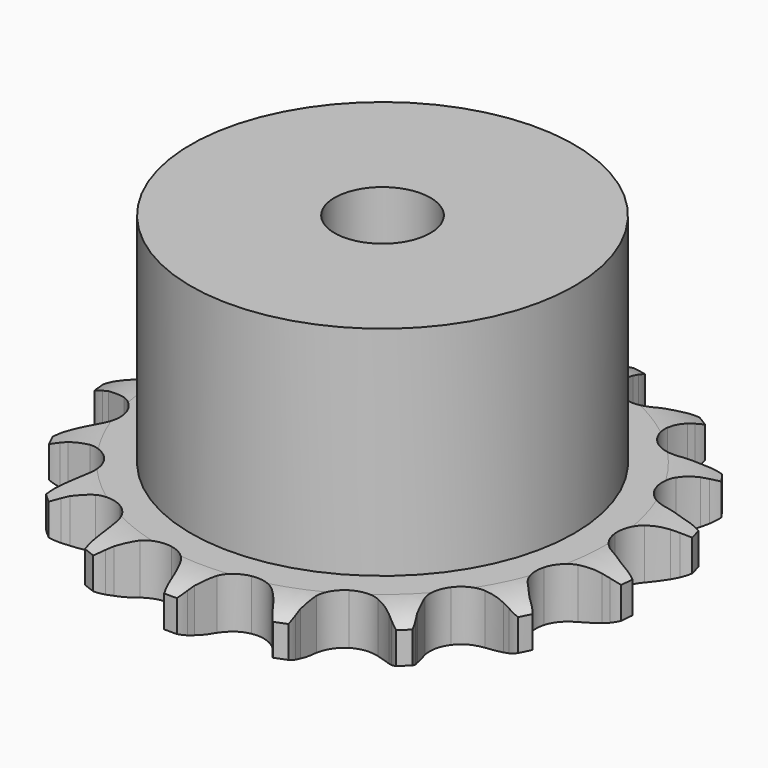
from build123d import *

# Parameters (mm, degrees)
PAD_DEPTH         = 5.3
SKETCH001_R       = 20
PAD001_DEPTH      = 28
SKETCH002_R       = 5
POCKET_DEPTH      = 0.001
POCKET_DEPTH_BACK = -28.001


with BuildPart() as part:
    # Sprocket → Pad (new body)
    with BuildSketch(Plane.XY):
        with BuildLine():
            ThreePointArc((-5.280087, 28.245969), (-4.503345, 27.401621), (-3.928208, 26.408912))
            Line((-3.928208, 26.408912), (-3.626974, 25.726681))
            ThreePointArc((-3.626974, 25.726681), (-3.134942, 24.781496), (-2.52599, 23.907054))
            ThreePointArc((-2.52599, 23.907054), (-1.402066, 23.009743), (0, 22.68946))
            ThreePointArc((0, 22.68946), (1.402066, 23.009743), (2.52599, 23.907054))
            ThreePointArc((2.52599, 23.907054), (3.134942, 24.781496), (3.626974, 25.726681))
            Line((3.626974, 25.726681), (3.928208, 26.408912))
            ThreePointArc((3.928208, 26.408912), (4.503345, 27.401621), (5.280087, 28.245969))
            ThreePointArc((5.280087, 28.245969), (5.699363, 27.178046), (5.877054, 26.044609))
            Line((5.877054, 26.044609), (5.911497, 25.299629))
            ThreePointArc((5.911497, 25.299629), (6.028863, 24.240528), (6.280809, 23.205157))
            ThreePointArc((6.280809, 23.205157), (7.00469, 21.962431), (8.196378, 21.157292))
            ThreePointArc((8.196378, 21.157292), (9.619466, 20.949462), (10.99164, 21.380171))
            Line((10.99164, 21.380171), (12.675601, 22.679201))
            ThreePointArc((12.675601, 22.679201), (12.933353, 22.948792), (13.202944, 23.206544))
            ThreePointArc((13.202944, 23.206544), (14.097851, 23.924454), (15.127155, 24.431195))
            ThreePointArc((15.127155, 24.431195), (15.13234, 23.283926), (14.888588, 22.162838))
            Line((14.888588, 22.162838), (14.651587, 21.455723))
            ThreePointArc((14.651587, 21.455723), (14.378436, 20.425743), (14.239349, 19.369275))
            ThreePointArc((14.239349, 19.369275), (14.465424, 17.948971), (15.285791, 16.767714))
            ThreePointArc((15.285791, 16.767714), (16.537703, 16.059839), (17.972807, 15.965778))
            Line((17.972807, 15.965778), (20.012319, 16.56877))
            ThreePointArc((20.012319, 16.56877), (20.350053, 16.727045), (20.69455, 16.870004))
            ThreePointArc((20.69455, 16.870004), (21.788364, 17.216158), (22.931218, 17.316852))
            ThreePointArc((22.931218, 17.316852), (22.521611, 16.245182), (21.889335, 15.287853))
            Line((21.889335, 15.287853), (21.412899, 14.714102))
            ThreePointArc((21.412899, 14.714102), (20.786121, 13.852348), (20.274787, 12.917465))
            ThreePointArc((20.274787, 12.917465), (19.972523, 11.511403), (20.310772, 10.113563))
            ThreePointArc((20.310772, 10.113563), (21.222432, 9.001247), (22.526648, 8.395118))
            Line((22.526648, 8.395118), (24.646261, 8.220634))
            ThreePointArc((24.646261, 8.220634), (25.018365, 8.246218), (25.391241, 8.255077))
            ThreePointArc((25.391241, 8.255077), (26.536238, 8.182724), (27.638292, 7.863772))
            ThreePointArc((27.638292, 7.863772), (26.869214, 7.012437), (25.933806, 6.348158))
            Line((25.933806, 6.348158), (25.28228, 5.98526))
            ThreePointArc((25.28228, 5.98526), (24.386526, 5.408117), (23.572002, 4.721079))
            ThreePointArc((23.572002, 4.721079), (22.782221, 3.519157), (22.592671, 2.093519))
            ThreePointArc((22.592671, 2.093519), (23.040954, 0.726986), (24.03814, -0.30935))
            Line((24.03814, -0.30935), (25.95159, -1.237743))
            ThreePointArc((25.95159, -1.237743), (26.307808, -1.348306), (26.658705, -1.474744))
            ThreePointArc((26.658705, -1.474744), (27.700246, -1.955832), (28.612662, -2.651354))
            ThreePointArc((28.612662, -2.651354), (27.58798, -3.167377), (26.475774, -3.44889))
            Line((26.475774, -3.44889), (25.73715, -3.551924))
            ThreePointArc((25.73715, -3.551924), (24.693396, -3.766511), (23.685688, -4.112914))
            ThreePointArc((23.685688, -4.112914), (22.515055, -4.948372), (21.823305, -6.209266))
            ThreePointArc((21.823305, -6.209266), (21.747667, -7.645459), (22.303148, -8.972038))
            Line((22.303148, -8.972038), (23.752013, -10.528957))
            ThreePointArc((23.752013, -10.528957), (24.044236, -10.760735), (24.325763, -11.005393))
            ThreePointArc((24.325763, -11.005393), (25.123182, -11.830242), (25.722733, -12.808399))
            ThreePointArc((25.722733, -12.808399), (24.580837, -12.919419), (23.442041, -12.780147))
            Line((23.442041, -12.780147), (22.716074, -12.609401))
            ThreePointArc((22.716074, -12.609401), (21.665285, -12.43245), (20.60049, -12.391435))
            ThreePointArc((20.60049, -12.391435), (19.207105, -12.747595), (18.10658, -13.673455))
            ThreePointArc((18.10658, -13.673455), (17.517238, -14.985341), (17.555992, -16.423002))
            Line((17.555992, -16.423002), (18.344594, -18.398176))
            ThreePointArc((18.344594, -18.398176), (18.533357, -18.719866), (18.707492, -19.049703))
            ThreePointArc((18.707492, -19.049703), (19.153094, -20.106912), (19.358807, -21.2356))
            ThreePointArc((19.358807, -21.2356), (18.253915, -20.926622), (17.24233, -20.385374))
            Line((17.24233, -20.385374), (16.627067, -19.963909))
            ThreePointArc((16.627067, -19.963909), (15.711158, -19.419318), (14.733082, -18.996425))
            ThreePointArc((14.733082, -18.996425), (13.30513, -18.825185), (11.944462, -19.290968))
            ThreePointArc((11.944462, -19.290968), (10.921008, -20.301371), (10.437802, -21.65595))
            Line((10.437802, -21.65595), (10.459637, -23.78262))
            ThreePointArc((10.459637, -23.78262), (10.519445, -24.150776), (10.56267, -24.521244))
            ThreePointArc((10.56267, -24.521244), (10.596273, -25.668033), (10.380367, -26.794815))
            ThreePointArc((10.380367, -26.794815), (9.461701, -26.107568), (8.713948, -25.237443))
            Line((8.713948, -25.237443), (8.292483, -24.62218))
            ThreePointArc((8.292483, -24.62218), (7.635151, -23.7835), (6.87589, -23.035842))
            ThreePointArc((6.87589, -23.035842), (5.606223, -22.36033), (4.169177, -22.303129))
            ThreePointArc((4.169177, -22.303129), (2.849836, -22.875588), (1.909929, -23.964141))
            Line((1.909929, -23.964141), (1.162047, -25.95509))
            ThreePointArc((1.162047, -25.95509), (1.084824, -26.319989), (0.991302, -26.681056))
            ThreePointArc((0.991302, -26.681056), (0.608368, -27.762543), (0, -28.735242))
            ThreePointArc((0, -28.735242), (-0.608368, -27.762543), (-0.991302, -26.681056))
            Line((-0.991302, -26.681056), (-1.162047, -25.95509))
            ThreePointArc((-1.162047, -25.95509), (-1.472025, -24.935588), (-1.909929, -23.964141))
            ThreePointArc((-1.909929, -23.964141), (-2.849836, -22.875588), (-4.169177, -22.303129))
            ThreePointArc((-4.169177, -22.303129), (-5.606223, -22.36033), (-6.87589, -23.035842))
            Line((-6.87589, -23.035842), (-8.292483, -24.62218))
            ThreePointArc((-8.292483, -24.62218), (-8.496309, -24.934543), (-8.713948, -25.237443))
            ThreePointArc((-8.713948, -25.237443), (-9.461701, -26.107568), (-10.380367, -26.794815))
            ThreePointArc((-10.380367, -26.794815), (-10.596273, -25.668033), (-10.56267, -24.521244))
            Line((-10.56267, -24.521244), (-10.459637, -23.78262))
            ThreePointArc((-10.459637, -23.78262), (-10.380395, -22.719986), (-10.437802, -21.65595))
            ThreePointArc((-10.437802, -21.65595), (-10.921008, -20.301371), (-11.944462, -19.290968))
            ThreePointArc((-11.944462, -19.290968), (-13.30513, -18.825185), (-14.733082, -18.996425))
            Line((-14.733082, -18.996425), (-16.627067, -19.963909))
            ThreePointArc((-16.627067, -19.963909), (-16.929968, -20.181548), (-17.24233, -20.385374))
            ThreePointArc((-17.24233, -20.385374), (-18.253915, -20.926622), (-19.358807, -21.2356))
            ThreePointArc((-19.358807, -21.2356), (-19.153094, -20.106912), (-18.707492, -19.049703))
            Line((-18.707492, -19.049703), (-18.344594, -18.398176))
            ThreePointArc((-18.344594, -18.398176), (-17.886836, -17.435925), (-17.555992, -16.423002))
            ThreePointArc((-17.555992, -16.423002), (-17.517238, -14.985341), (-18.10658, -13.673455))
            ThreePointArc((-18.10658, -13.673455), (-19.207105, -12.747595), (-20.60049, -12.391435))
            Line((-20.60049, -12.391435), (-22.716074, -12.609401))
            ThreePointArc((-22.716074, -12.609401), (-23.077141, -12.702923), (-23.442041, -12.780147))
            ThreePointArc((-23.442041, -12.780147), (-24.580837, -12.919419), (-25.722733, -12.808399))
            ThreePointArc((-25.722733, -12.808399), (-25.123182, -11.830242), (-24.325763, -11.005393))
            Line((-24.325763, -11.005393), (-23.752013, -10.528957))
            ThreePointArc((-23.752013, -10.528957), (-22.977561, -9.797046), (-22.303148, -8.972038))
            ThreePointArc((-22.303148, -8.972038), (-21.747667, -7.645459), (-21.823305, -6.209266))
            ThreePointArc((-21.823305, -6.209266), (-22.515055, -4.948372), (-23.685688, -4.112914))
            Line((-23.685688, -4.112914), (-25.73715, -3.551924))
            ThreePointArc((-25.73715, -3.551924), (-26.107618, -3.508698), (-26.475774, -3.44889))
            ThreePointArc((-26.475774, -3.44889), (-27.58798, -3.167377), (-28.612662, -2.651354))
            ThreePointArc((-28.612662, -2.651354), (-27.700246, -1.955832), (-26.658705, -1.474744))
            Line((-26.658705, -1.474744), (-25.95159, -1.237743))
            ThreePointArc((-25.95159, -1.237743), (-24.965038, -0.835021), (-24.03814, -0.30935))
            ThreePointArc((-24.03814, -0.30935), (-23.040954, 0.726986), (-22.592671, 2.093519))
            ThreePointArc((-22.592671, 2.093519), (-22.782221, 3.519157), (-23.572002, 4.721079))
            Line((-23.572002, 4.721079), (-25.28228, 5.98526))
            ThreePointArc((-25.28228, 5.98526), (-25.612117, 6.159396), (-25.933806, 6.348158))
            ThreePointArc((-25.933806, 6.348158), (-26.869214, 7.012437), (-27.638292, 7.863772))
            ThreePointArc((-27.638292, 7.863772), (-26.536238, 8.182724), (-25.391241, 8.255077))
            Line((-25.391241, 8.255077), (-24.646261, 8.220634))
            ThreePointArc((-24.646261, 8.220634), (-23.580849, 8.239778), (-22.526648, 8.395118))
            ThreePointArc((-22.526648, 8.395118), (-21.222432, 9.001247), (-20.310772, 10.113563))
            ThreePointArc((-20.310772, 10.113563), (-19.972523, 11.511403), (-20.274787, 12.917465))
            Line((-20.274787, 12.917465), (-21.412899, 14.714102))
            ThreePointArc((-21.412899, 14.714102), (-21.657557, 14.995629), (-21.889335, 15.287853))
            ThreePointArc((-21.889335, 15.287853), (-22.521611, 16.245182), (-22.931218, 17.316852))
            ThreePointArc((-22.931218, 17.316852), (-21.788364, 17.216158), (-20.69455, 16.870004))
            Line((-20.69455, 16.870004), (-20.012319, 16.56877))
            ThreePointArc((-20.012319, 16.56877), (-19.011936, 16.20175), (-17.972807, 15.965778))
            ThreePointArc((-17.972807, 15.965778), (-16.537703, 16.059839), (-15.285791, 16.767714))
            ThreePointArc((-15.285791, 16.767714), (-14.465424, 17.948971), (-14.239349, 19.369275))
            Line((-14.239349, 19.369275), (-14.651587, 21.455723))
            ThreePointArc((-14.651587, 21.455723), (-14.778025, 21.80662), (-14.888588, 22.162838))
            ThreePointArc((-14.888588, 22.162838), (-15.13234, 23.283926), (-15.127155, 24.431195))
            ThreePointArc((-15.127155, 24.431195), (-14.097851, 23.924454), (-13.202944, 23.206544))
            Line((-13.202944, 23.206544), (-12.675601, 22.679201))
            ThreePointArc((-12.675601, 22.679201), (-11.875355, 21.975585), (-10.99164, 21.380171))
            ThreePointArc((-10.99164, 21.380171), (-9.619466, 20.949462), (-8.196378, 21.157292))
            ThreePointArc((-8.196378, 21.157292), (-7.00469, 21.962431), (-6.280809, 23.205157))
            Line((-6.280809, 23.205157), (-5.911497, 25.299629))
            ThreePointArc((-5.911497, 25.299629), (-5.902638, 25.672506), (-5.877054, 26.044609))
            ThreePointArc((-5.877054, 26.044609), (-5.699363, 27.178046), (-5.280087, 28.245969))
        make_face()
    extrude(amount=PAD_DEPTH)

    # Sketch → Groove (revolve, cut)
    with BuildSketch(Plane.XZ):
        with BuildLine():
            Line((23.291101, 0), (27.65, 0))
            Line((32.008899, 0), (27.65, 0))
            Line((32.008899, 5.3), (32.008899, 0))
            Line((27.65, 5.3), (32.008899, 5.3))
            Line((23.291101, 5.3), (27.65, 5.3))
            ThreePointArc((27.65, 4.3), (25.527169, 5.046794), (23.291101, 5.3))
            Line((27.65, 1), (27.65, 4.3))
            ThreePointArc((23.291101, 0), (25.527169, 0.253206), (27.65, 1))
        make_face()
    revolve(axis=Axis((0, 0, 0), (0, 0, 1)), mode=Mode.SUBTRACT)

    # Sketch001 → Pad001 (join)
    with BuildSketch(Plane.XY):
        Circle(SKETCH001_R)
    extrude(amount=PAD001_DEPTH)

    # Sketch002 → Pocket (cut, two sides)
    with BuildSketch(Plane.XY) as pocket_sk:
        Circle(SKETCH002_R)
    extrude(amount=-POCKET_DEPTH, mode=Mode.SUBTRACT)
    extrude(pocket_sk.sketch, amount=-POCKET_DEPTH_BACK, mode=Mode.SUBTRACT)


solid = part.part
